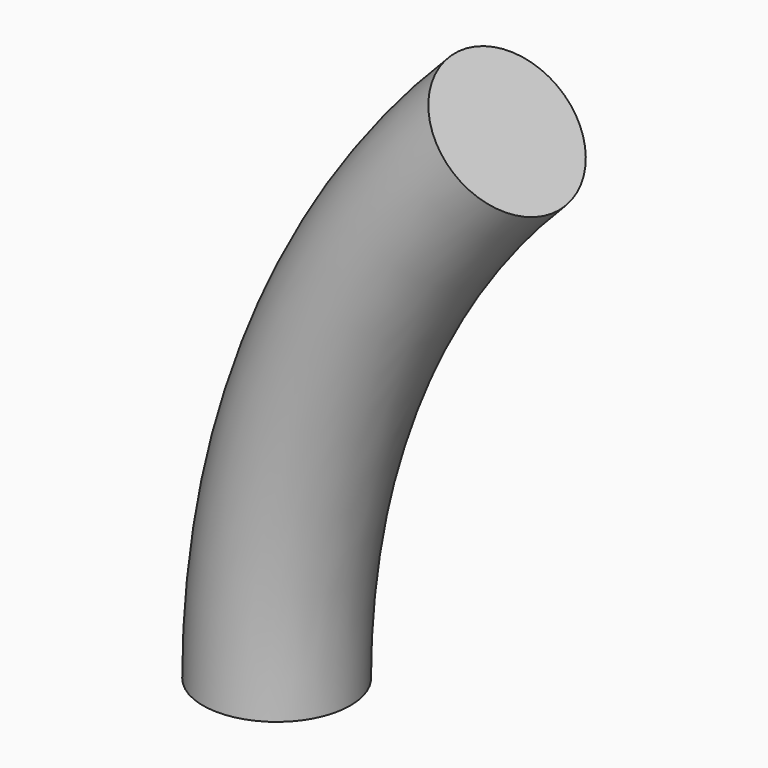
from build123d import *

# Parameters (mm, degrees)
F0_R     = 14.2875
F1_ANGLE = -45


with BuildPart() as f1:
    # F0 (on Top) → F1 (revolve)
    with BuildSketch(Plane.XY):
        with Locations((-152.4, 0)):
            Circle(F0_R)
    revolve(axis=Axis((0, -79.112187, 0), (0, -1, 0)), revolution_arc=F1_ANGLE)


solid = f1.part
